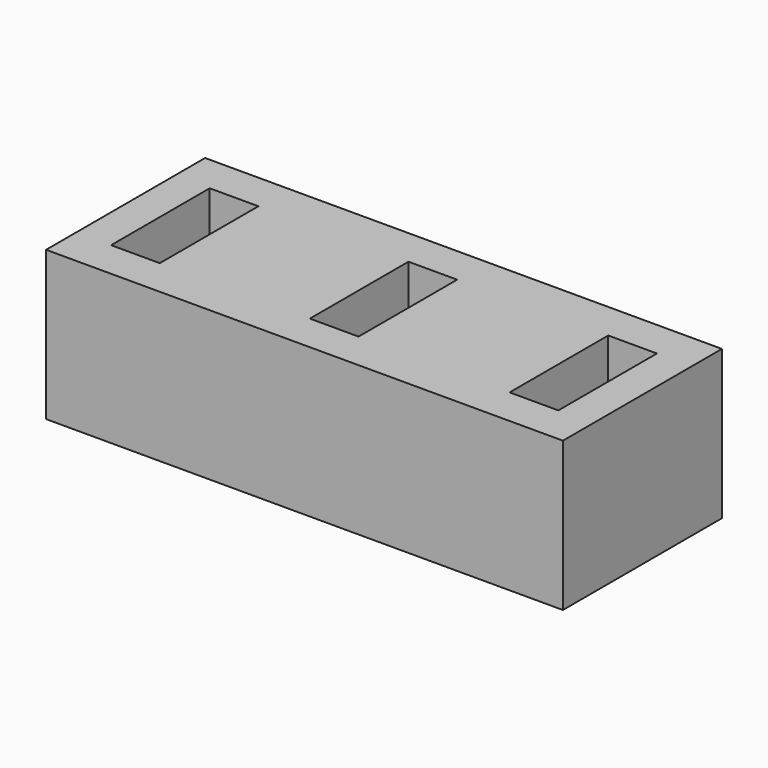
from build123d import *

# Parameters (mm, degrees)
BOX003_W     = 4.9
BOX003_H     = 12.4
BOX003_DEPTH = 15
BOX002_W     = 4.9
BOX002_H     = 12.4
BOX002_DEPTH = 15
BOX001_W     = 4.9
BOX001_H     = 12.4
BOX001_DEPTH = 15
BOX_W        = 52
BOX_H        = 20
BOX_DEPTH    = 15


with BuildPart() as cubo003:
    # Box003 → Box003 (new body)
    with BuildSketch(Plane(origin=(43.6, 3.8, 5), x_dir=(1, 0, 0), z_dir=(0, 0, 1))):
        with Locations((2.45, 6.2)):
            Rectangle(BOX003_W, BOX003_H)
    extrude(amount=BOX003_DEPTH)


with BuildPart() as cubo002:
    # Box002 → Box002 (new body)
    with BuildSketch(Plane(origin=(23.5, 3.8, 5), x_dir=(1, 0, 0), z_dir=(0, 0, 1))):
        with Locations((2.45, 6.2)):
            Rectangle(BOX002_W, BOX002_H)
    extrude(amount=BOX002_DEPTH)


with BuildPart() as cubo001:
    # Box001 → Box001 (new body)
    with BuildSketch(Plane(origin=(3.5, 3.8, 5), x_dir=(1, 0, 0), z_dir=(0, 0, 1))):
        with Locations((2.45, 6.2)):
            Rectangle(BOX001_W, BOX001_H)
    extrude(amount=BOX001_DEPTH)


with BuildPart() as cut002:
    # Box → Box (new body)
    with BuildSketch(Plane.XY):
        with Locations((26, 10)):
            Rectangle(BOX_W, BOX_H)
    extrude(amount=BOX_DEPTH)

    # Cut: cut Cubo001
    add(cubo001.part, mode=Mode.SUBTRACT)

    # Cut001: cut Cubo002
    add(cubo002.part, mode=Mode.SUBTRACT)

    # Cut002: cut Cubo003
    add(cubo003.part, mode=Mode.SUBTRACT)


solid = cut002.part
